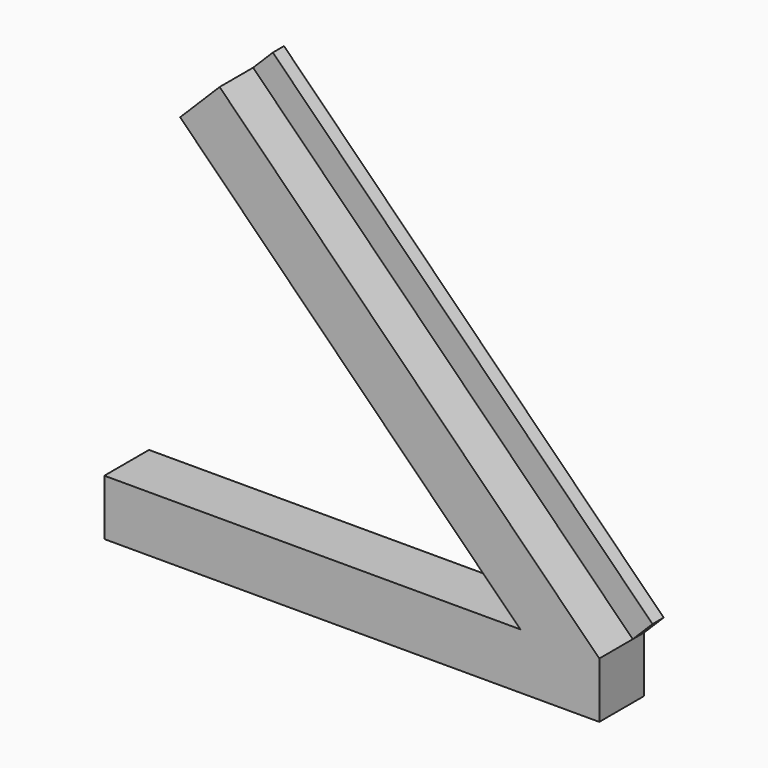
from build123d import *

# Parameters (mm, degrees)
F1_DEPTH = 10
F2_DEPTH = 2.5


with BuildPart() as f1:
    # F0 (on Front) → F1 (new body)
    with BuildSketch(Plane.XZ):
        Polygon((-88.664238, 0), (0, 0), (0, 10), (-14.142136, 10), (-88.664238, 10), align=None)
        Polygon((-14.142136, 10), (0, 10), (-68.013943, 78.013943), (-75.085011, 70.942875), align=None)
    extrude(amount=F1_DEPTH)

    # F0 (on Front) → F2 (join)
    with BuildSketch(Plane.XZ):
        Polygon((-68.013943, 78.013943), (0, 10), (3.535534, 13.535534), (-64.478409, 81.549477), align=None)
    extrude(amount=F2_DEPTH)


solid = f1.part
